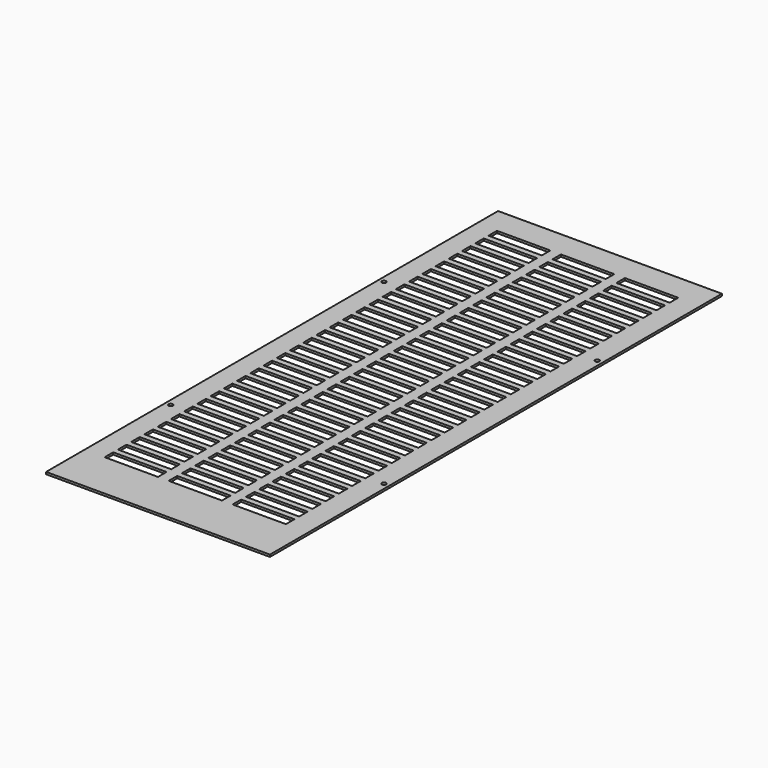
from build123d import *

# Parameters (mm, degrees)
SKETCH_W            = 210
SKETCH_H            = 530
PAD_DEPTH           = 2
SKETCH001_R         = 2
POCKET_DEPTH        = 5
SKETCH002_W         = 50
SKETCH002_H         = 10
POCKET001_DEPTH     = 5
LINEARPATTERN_COUNT = 30
LINEARPATTERN_PITCH = 15.517241


with BuildPart() as part:
    # Sketch → Pad (new body)
    with BuildSketch(Plane.XY):
        with Locations((-5.054385, -5.880929)):
            Rectangle(SKETCH_W, SKETCH_H)
    extrude(amount=PAD_DEPTH)

    # Sketch001 → Pocket (cut)
    with BuildSketch(Plane.XY.offset(2)):
        with Locations((-105.054385, 119.119071)):
            Circle(SKETCH001_R)
        with Locations((-105.054385, -130.880929)):
            Circle(SKETCH001_R)
        with Locations((94.945615, 119.119071)):
            Circle(SKETCH001_R)
        with Locations((94.945615, -130.880929)):
            Circle(SKETCH001_R)
    extrude(amount=-POCKET_DEPTH, mode=Mode.SUBTRACT)

    # Sketch002 → Pocket001 (cut)
    with BuildSketch(Plane.XY.offset(2)):
        with Locations((-66.054385, 229.119071)):
            Rectangle(SKETCH002_W, SKETCH002_H)
        with Locations((-6.054385, 229.119071)):
            Rectangle(SKETCH002_W, SKETCH002_H)
        with Locations((53.945615, 229.119071)):
            Rectangle(SKETCH002_W, SKETCH002_H)
    pocket001 = extrude(amount=-POCKET001_DEPTH, mode=Mode.SUBTRACT)

    # LinearPattern: Pocket001 ×30
    with Locations(*[(0, -i * LINEARPATTERN_PITCH, 0) for i in range(1, LINEARPATTERN_COUNT)]):
        add(pocket001, mode=Mode.SUBTRACT)


solid = part.part
